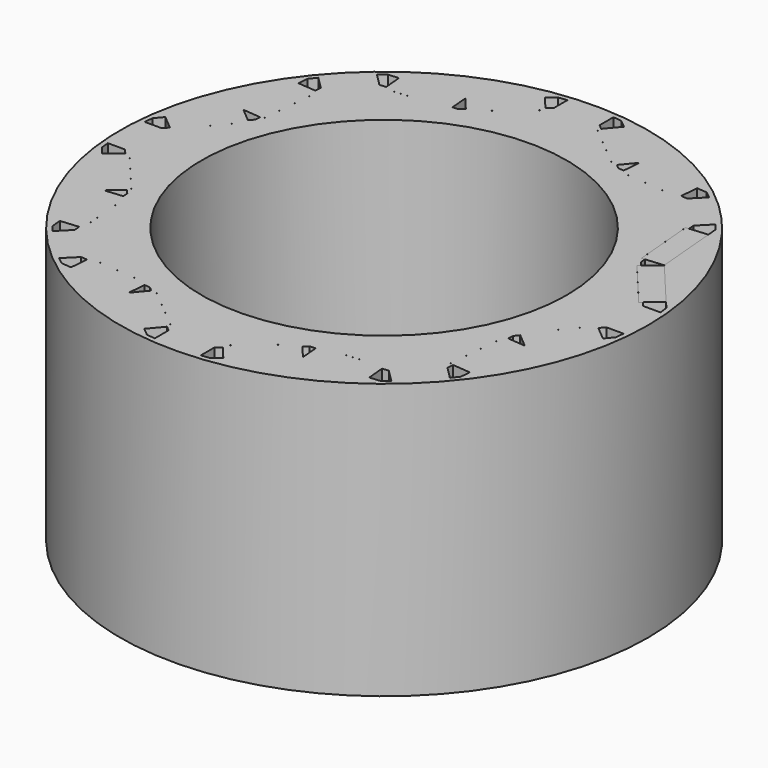
from build123d import *

# Parameters (mm, degrees)
SKETCH001_R           = 80.235
SKETCH001_R_2         = 55.5
PAD_DEPTH             = 83.6
POCKET_DEPTH          = 567.295953
POLARPATTERN_COUNT    = 8
PAD002_DEPTH          = 83.6
POLARPATTERN001_COUNT = 8
PAD004_DEPTH          = 83.6
POLARPATTERN002_COUNT = 8
PAD001_DEPTH          = 83.6
PAD003_DEPTH          = 83.6


with BuildPart() as rotor:
    # Sketch001 → Pad (new body)
    with BuildSketch(Plane.XY):
        Circle(SKETCH001_R)
        Circle(SKETCH001_R_2, mode=Mode.SUBTRACT)
    extrude(amount=-PAD_DEPTH)

    # Sketch → Pocket (cut, through all)
    with BuildSketch(Plane.XY):
        Polygon((58.638634, 24.288917), (58.486651, 26.012229), (57.490518, 25.924377), (55.83013, 44.751303), (56.826264, 44.839154), (56.656711, 46.761692), (60.376093, 50.481073), (62.031781, 48.420311), (62.304999, 45.322335), (63.969419, 26.497001), (76.104018, 12.008556), (78.101423, 9.624763), (78.387854, 6.996835), (73.127854, 6.996835), (71.888306, 8.476167), (71.121813, 7.833914), (58.983238, 22.320632), (59.749731, 22.962885), align=None)
    pocket = extrude(amount=-POCKET_DEPTH, mode=Mode.SUBTRACT)

    # PolarPattern: Pocket ×8 about axis
    polarpattern_axis = Axis((0, 0, 0), (0, 0, 1))
    for i in range(1, POLARPATTERN_COUNT):
        add(pocket.rotate(polarpattern_axis, i * 360 / POLARPATTERN_COUNT), mode=Mode.SUBTRACT)

    # Sketch006 → Pad002 (join)
    with BuildSketch(Plane.XY):
        Polygon((58.490642, 26.014297), (57.494501, 25.926533), (55.835756, 44.753603), (56.831897, 44.841367), (62.310674, 45.324071), (63.969419, 26.497001), align=None)
    pad002 = extrude(amount=-PAD002_DEPTH)

    # PolarPattern001: Pad002 ×8 about axis
    polarpattern001_axis = Axis((0, 0, 0), (0, 0, 1))
    for i in range(1, POLARPATTERN001_COUNT):
        add(pad002.rotate(polarpattern001_axis, i * 360 / POLARPATTERN001_COUNT))

    # Sketch007 → Pad004 (join)
    with BuildSketch(Plane.XY):
        Polygon((59.754324, 22.963876), (58.987943, 22.321489), (71.129046, 7.83689), (71.895427, 8.479277), (76.110522, 12.012402), (63.969419, 26.497001), align=None)
    pad004 = extrude(amount=-PAD004_DEPTH)

    # PolarPattern002: Pad004 ×8 about axis
    polarpattern002_axis = Axis((0, 0, 0), (0, 0, 1))
    for i in range(1, POLARPATTERN002_COUNT):
        add(pad004.rotate(polarpattern002_axis, i * 360 / POLARPATTERN002_COUNT))


with BuildPart() as magnet1:
    # Sketch006 → Pad001 (new body)
    with BuildSketch(Plane.XY):
        Polygon((58.490642, 26.014297), (57.494501, 25.926533), (55.835756, 44.753603), (56.831897, 44.841367), (62.310674, 45.324071), (63.969419, 26.497001), align=None)
    extrude(amount=-PAD001_DEPTH)


with BuildPart() as magnet2:
    # Sketch007 → Pad003 (new body)
    with BuildSketch(Plane.XY):
        Polygon((59.754324, 22.963876), (58.987943, 22.321489), (71.129046, 7.83689), (71.895427, 8.479277), (76.110522, 12.012402), (63.969419, 26.497001), align=None)
    extrude(amount=-PAD003_DEPTH)


solid = Compound([rotor.part, magnet1.part, magnet2.part])
